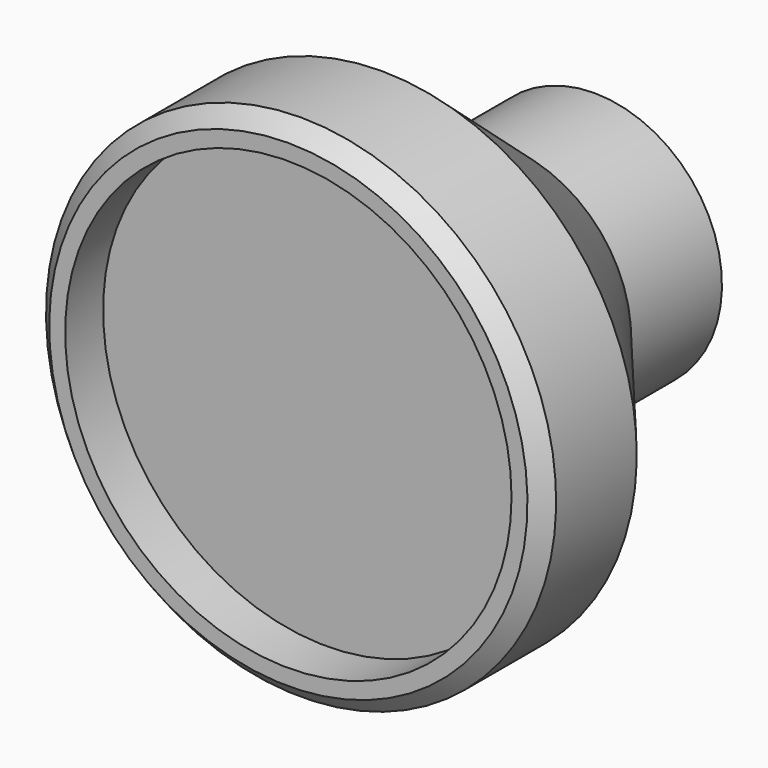
from build123d import *

# Parameters (mm, degrees)
F2_SIZE  = 0.79375
F3_R     = 11.1125
F4_DEPTH = 2.3622


with BuildPart() as f1:
    # F0 (on Right) → F1 (revolve)
    with BuildSketch(Plane.YZ):
        Polygon((0, 12.7), (0, 0), (19.05, 0), (19.05, 6.35), (13.396951, 6.35), (5.807927, 12.7), align=None)
    revolve(axis=Axis((0, 9.525, 0), (0, -1, 0)))

    # F2
    f2_edges = [f1.edges().sort_by_distance(p)[0] for p in [
        (0, 0, -12.7),
    ]]
    chamfer(f2_edges, length=F2_SIZE)

    # F3 (on face) → F4 (cut)
    with BuildSketch(Plane.XZ):
        Circle(F3_R)
    extrude(amount=-F4_DEPTH, mode=Mode.SUBTRACT)


solid = f1.part
